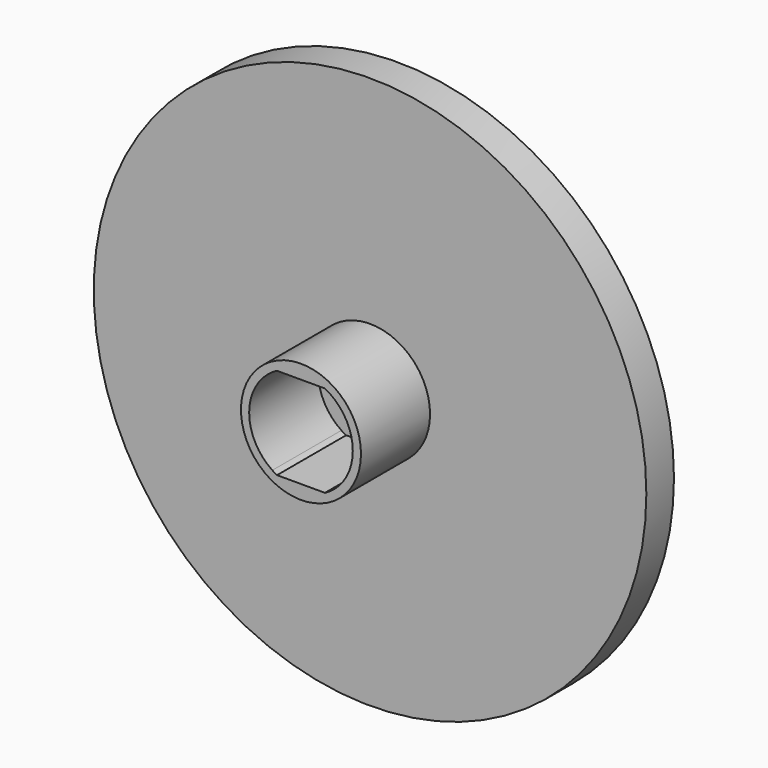
from build123d import *

# Parameters (mm, degrees)
F0_R     = 25.4
F1_DEPTH = 3.175
F2_R     = 5.516158
F3_DEPTH = 7.9375


with BuildPart() as f1:
    # F0 (on Front) → F1 (new body)
    with BuildSketch(Plane.XZ):
        Circle(F0_R)
    extrude(amount=F1_DEPTH)

    # F2 (on face) → F3 (join)
    with BuildSketch(Plane.XZ.offset(3.175)):
        Circle(F2_R)
        with BuildLine():
            ThreePointArc((-2.632571, 3.96875), (-2.420731, 4.101398), (-2.202224, 4.22275))
            Line((-2.202224, 4.22275), (2.202224, 4.22275))
            ThreePointArc((2.202224, 4.22275), (2.420731, 4.101398), (2.632571, 3.96875))
            ThreePointArc((2.632571, 3.96875), (4.7625, 0), (2.632571, -3.96875))
            ThreePointArc((2.632571, -3.96875), (2.420731, -4.101398), (2.202224, -4.22275))
            Line((2.202224, -4.22275), (-2.202224, -4.22275))
            ThreePointArc((-2.202224, -4.22275), (-2.420731, -4.101398), (-2.632571, -3.96875))
            ThreePointArc((-2.632571, -3.96875), (-4.7625, 0), (-2.632571, 3.96875))
        make_face(mode=Mode.SUBTRACT)
    extrude(amount=F3_DEPTH)


solid = f1.part
